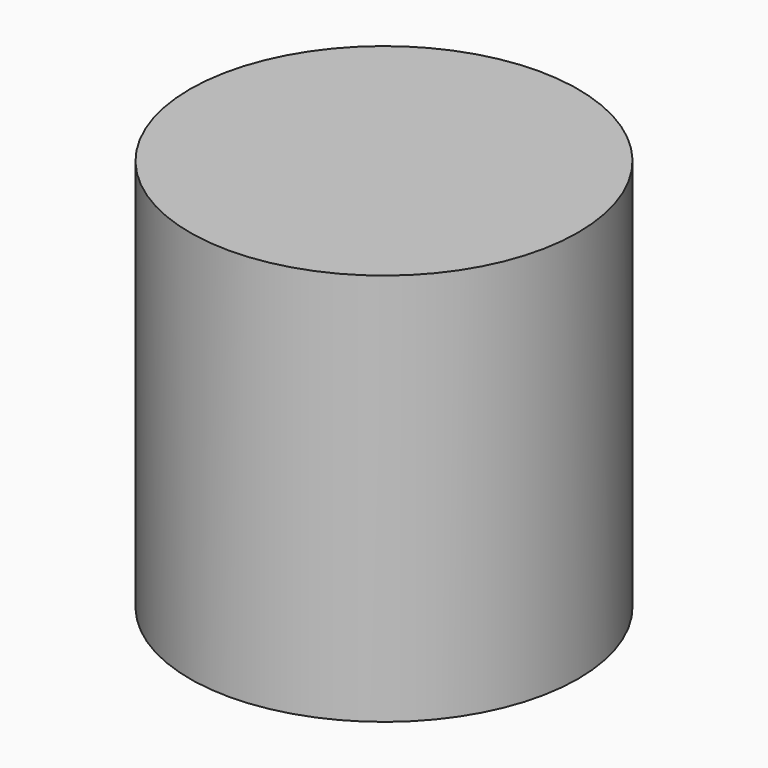
from build123d import *

# Parameters (mm, degrees)
F1_R     = 45.443001
F2_DEPTH = 91.993026


with BuildPart() as f2:
    # F1 (on face) → F2 (new body)
    with BuildSketch(Plane.XY):
        with Locations((16.476505, -57.012621)):
            Circle(F1_R)
    extrude(amount=F2_DEPTH)


solid = f2.part
